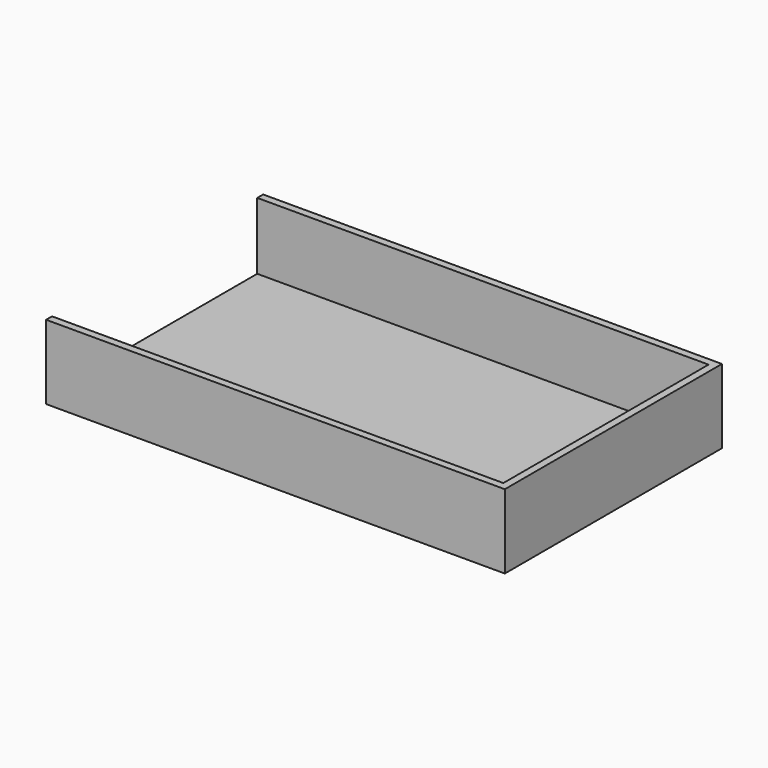
from build123d import *

# Parameters (mm, degrees)
F0_W      = 159.493204
F0_H      = 92.830694
F1_DEPTH  = 25.4
F2_T      = -2.54
F1_FACE_W = 92.830694
F1_FACE_H = 25.4
F3_DEPTH  = 2.54


with BuildPart() as f1:
    # F0 (on Top) → F1 (new body)
    with BuildSketch(Plane.XY):
        with Locations((-0.945693, -4.521475)):
            Rectangle(F0_W, F0_H)
    extrude(amount=F1_DEPTH)

    # F2
    f2_openings = [f1.faces().sort_by_distance(p)[0] for p in [
        (-0.945693, -4.521475, 25.4),
    ]]
    offset(amount=F2_T, openings=f2_openings)

    # F1_face (on face) → F3 (cut)
    with BuildSketch(Plane(origin=(-80.692295, -4.521475, 12.7), x_dir=(0, -1, 0), z_dir=(-1, 0, 0))):
        Rectangle(F1_FACE_W, F1_FACE_H)
    extrude(amount=-F3_DEPTH, mode=Mode.SUBTRACT)


solid = f1.part
